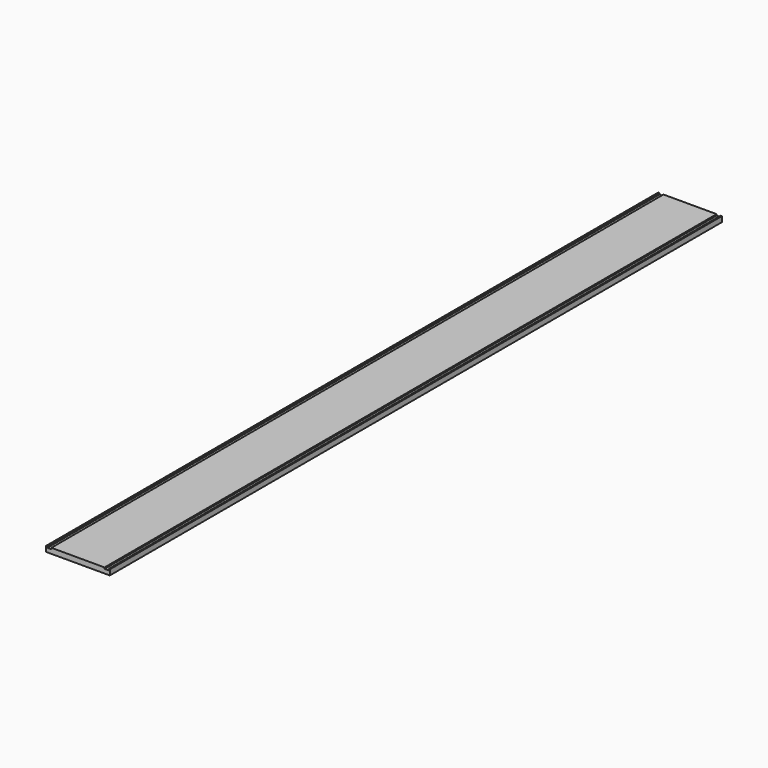
from build123d import *

# Parameters (mm, degrees)
F0_W     = 19.304
F0_H     = 6.35
F0_H_2   = 19.304
F1_DEPTH = 3657.6
F2_W     = 19.304
F2_H     = 6.35
F3_DEPTH = 3657.601


with BuildPart() as f1:
    # F0 (on Front) → F1 (new body)
    with BuildSketch(Plane.XZ):
        Polygon((-41.66015, 14.582246), (-47.75615, 14.582246), (-47.75615, -11.071754), (-41.66015, -11.071754), (-41.66015, 8.232246), align=None)
        with Locations((-32.00815, 11.407246)):
            Rectangle(F0_W, F0_H)
        Polygon((231.64385, 14.582246), (-22.35615, 14.582246), (-22.35615, 8.232246), (-22.35615, -11.071754), (231.64385, -11.071754), (231.64385, 8.232246), align=None)
        with Locations((-32.00815, -1.419754)):
            Rectangle(F0_W, F0_H_2)
        with Locations((241.29585, 11.407246)):
            Rectangle(F0_W, F0_H)
        Polygon((257.04385, 14.582246), (250.94785, 14.582246), (250.94785, 8.232246), (250.94785, -11.071754), (257.04385, -11.071754), align=None)
        with Locations((241.29585, -1.419754)):
            Rectangle(F0_W, F0_H_2)
    extrude(amount=-F1_DEPTH)

    # F2 (on face) + F0 (on Front) → F3 (cut, through all)
    with BuildSketch(Plane.XZ):
        with Locations((-32.00815, 11.407246)):
            Rectangle(F2_W, F2_H)
    with BuildSketch(Plane.XZ):
        with Locations((241.29585, 11.407246)):
            Rectangle(F0_W, F0_H)
    extrude(amount=-F3_DEPTH, mode=Mode.SUBTRACT)


solid = f1.part
